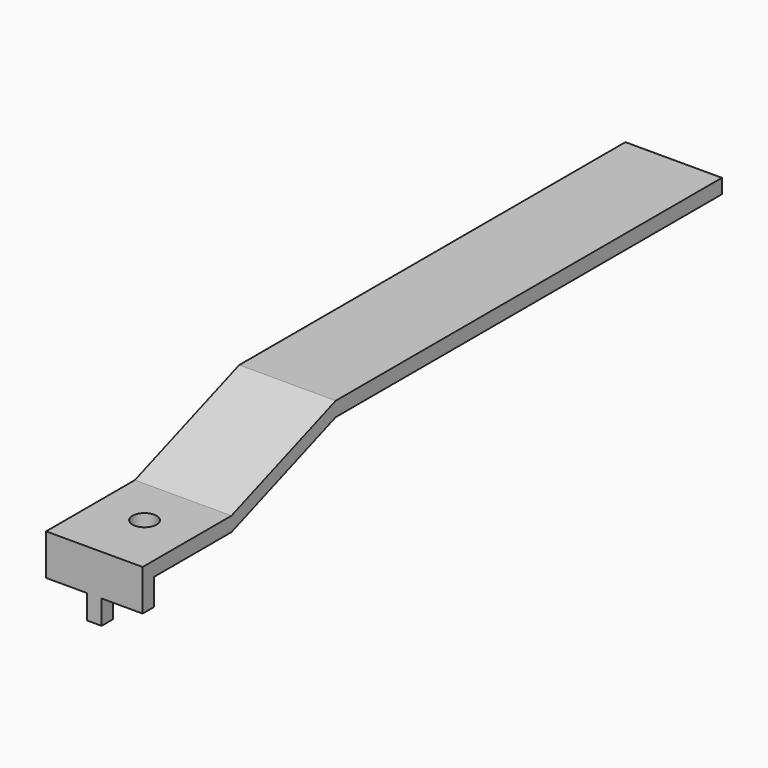
from build123d import *

# Parameters (mm, degrees)
F1_DEPTH = 10
F2_R     = 2.5
F3_DEPTH = 26.918743
F4_W     = 3
F4_H     = 3
F5_DEPTH = 5


with BuildPart() as f1:
    # F0 (on Right) → F1 (new body, symmetric)
    with BuildSketch(Plane.YZ):
        Polygon((9.460487, 8.417743), (9.460487, 13.917743), (29.460487, 13.917743), (56.460487, 23.917743), (156.460487, 23.917743), (156.460487, 26.917743), (56.460487, 26.917743), (29.460487, 16.917743), (6.460487, 16.917743), (6.460487, 8.417743), align=None)
    extrude(amount=F1_DEPTH, both=True)

    # F2 (on Top) → F3 (cut, through all)
    with BuildSketch(Plane.XY):
        with Locations((0, 19.460487)):
            Circle(F2_R)
    extrude(amount=F3_DEPTH, mode=Mode.SUBTRACT)

    # F4 (on face) → F5 (join)
    with BuildSketch(Plane(origin=(0, 0, 8.417743), x_dir=(1, 0, 0), z_dir=(0, 0, -1))):
        with Locations((0, -7.960487)):
            Rectangle(F4_W, F4_H)
    extrude(amount=F5_DEPTH)


solid = f1.part
